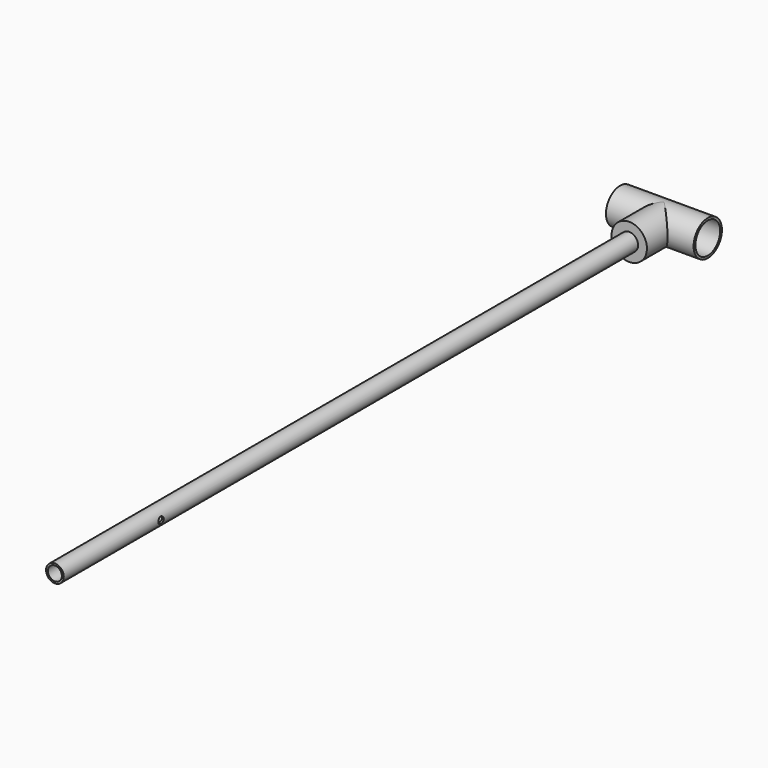
from build123d import *

# Parameters (mm, degrees)
F0_R          = 10
F1_DEPTH      = 860
F2_R          = 20
F3_DEPTH      = 49.5
F4_R          = 3.75
F5_DEPTH      = 96
F5_DEPTH_BACK = 63
F6_R          = 17.5
F7_DEPTH      = 216
F8_R          = 7.8994
F9_DEPTH      = 850
F10_R         = 20
F10_R_2       = 10
F11_DEPTH     = 49
F12_R         = 17.5
F13_DEPTH     = 133


with BuildPart() as f1:
    # F0 (on Front) → F1 (new body)
    with BuildSketch(Plane.XZ):
        Circle(F0_R)
    extrude(amount=F1_DEPTH)

    # F2 (on Right) → F3 (join, symmetric)
    with BuildSketch(Plane.YZ):
        Circle(F2_R)
    extrude(amount=F3_DEPTH, both=True)

    # F4 (on Right) → F5 (cut, two sides)
    with BuildSketch(Plane.YZ) as f5_sk:
        with Locations((-722.5, 0)):
            Circle(F4_R)
    extrude(amount=F5_DEPTH, mode=Mode.SUBTRACT)
    extrude(f5_sk.sketch, amount=-F5_DEPTH_BACK, mode=Mode.SUBTRACT)

    # F6 (on face) → F7 (cut, symmetric)
    with BuildSketch(Plane.YZ.offset(49.5)):
        Circle(F6_R)
    extrude(amount=F7_DEPTH, both=True, mode=Mode.SUBTRACT)

    # F8 (on face) → F9 (cut)
    with BuildSketch(Plane.XZ.offset(860)):
        Circle(F8_R)
    extrude(amount=-F9_DEPTH, mode=Mode.SUBTRACT)

    # F10 (on Front) → F11 (join)
    with BuildSketch(Plane.XZ):
        Circle(F10_R)
        Circle(F10_R_2, mode=Mode.SUBTRACT)
    extrude(amount=F11_DEPTH)

    # F12 (on face) → F13 (cut)
    with BuildSketch(Plane.YZ.offset(49.5)):
        Circle(F12_R)
    extrude(amount=-F13_DEPTH, mode=Mode.SUBTRACT)


solid = f1.part
